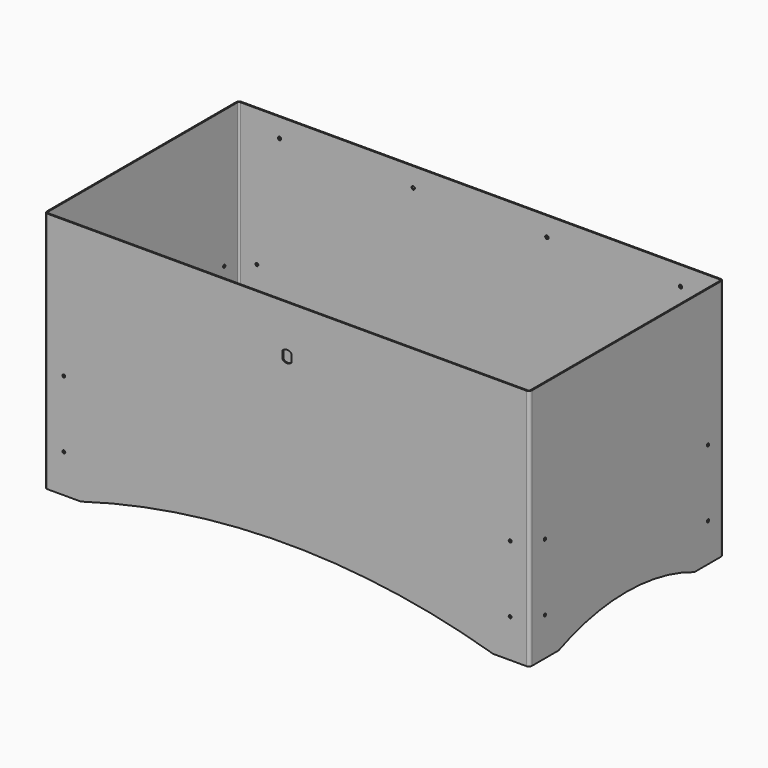
from build123d import *

# Parameters (mm, degrees)
F1_DEPTH  = 508
F2_T      = -2.54
F4_DEPTH  = 381
F6_DEPTH  = 635
F7_R      = 3.5
F8_DEPTH  = 254.001
F10_DEPTH = 254.001
F11_R     = 3
F12_DEPTH = 381
F13_R     = 3
F14_DEPTH = 1270


with BuildPart() as f1:
    # F0 (on Top) → F1 (new body)
    with BuildSketch(Plane.XY):
        with BuildLine():
            ThreePointArc((508, 247.65), (506.140128, 252.140128), (501.65, 254))
            Line((501.65, 254), (-501.65, 254))
            ThreePointArc((-501.65, 254), (-506.140128, 252.140128), (-508, 247.65))
            Line((-508, 247.65), (-508, -247.65))
            ThreePointArc((-508, -247.65), (-506.140128, -252.140128), (-501.65, -254))
            Line((-501.65, -254), (501.65, -254))
            ThreePointArc((501.65, -254), (506.140128, -252.140128), (508, -247.65))
            Line((508, -247.65), (508, 247.65))
        make_face()
    extrude(amount=F1_DEPTH)

    # F2
    f2_openings = [f1.faces().sort_by_distance(p)[0] for p in [
        (0, 0, 508),
        (0, 0, 0),
    ]]
    offset(amount=F2_T, openings=f2_openings)

    # F3 (on Front) → F4 (cut, symmetric)
    with BuildSketch(Plane.XZ):
        with BuildLine():
            ThreePointArc((431.8, 0), (0, 62.451246), (-431.8, 0))
            Line((-431.8, 0), (431.8, 0))
        make_face()
    extrude(amount=F4_DEPTH, both=True, mode=Mode.SUBTRACT)

    # F5 (on Right) → F6 (cut, symmetric)
    with BuildSketch(Plane.YZ):
        with BuildLine():
            Line((-177.8, 0), (177.8, 0))
            ThreePointArc((177.8, 0), (0, 35.988652), (-177.8, 0))
        make_face()
    extrude(amount=F6_DEPTH, both=True, mode=Mode.SUBTRACT)

    # F7 (on Front) → F8 (cut, through all)
    with BuildSketch(Plane.XZ):
        with Locations((420, 468)):
            Circle(F7_R)
        with Locations((140, 468)):
            Circle(F7_R)
        with Locations((-140, 468)):
            Circle(F7_R)
        with Locations((-420, 468)):
            Circle(F7_R)
    extrude(amount=-F8_DEPTH, mode=Mode.SUBTRACT)

    # F9 (on Front) → F10 (cut, through all)
    with BuildSketch(Plane.XZ):
        with BuildLine():
            Line((-9, 416.674676), (-9, 399.325324))
            ThreePointArc((-9, 399.325324), (0, 395.5), (9, 399.325324))
            Line((9, 399.325324), (9, 416.674676))
            ThreePointArc((9, 416.674676), (0, 420.5), (-9, 416.674676))
        make_face()
    extrude(amount=F10_DEPTH, mode=Mode.SUBTRACT)

    # F11 (on Front) → F12 (cut, symmetric)
    with BuildSketch(Plane.XZ):
        with Locations((-467.5124, 220)):
            Circle(F11_R)
        with Locations((-467.5124, 80)):
            Circle(F11_R)
        with Locations((467.5124, 220)):
            Circle(F11_R)
        with Locations((467.5124, 80)):
            Circle(F11_R)
    extrude(amount=F12_DEPTH, both=True, mode=Mode.SUBTRACT)

    # F13 (on Right) → F14 (cut, symmetric)
    with BuildSketch(Plane.YZ):
        with Locations((213.5124, 220)):
            Circle(F13_R)
        with Locations((213.5124, 80)):
            Circle(F13_R)
        with Locations((-213.5124, 220)):
            Circle(F13_R)
        with Locations((-213.5124, 80)):
            Circle(F13_R)
    extrude(amount=F14_DEPTH, both=True, mode=Mode.SUBTRACT)


solid = f1.part
